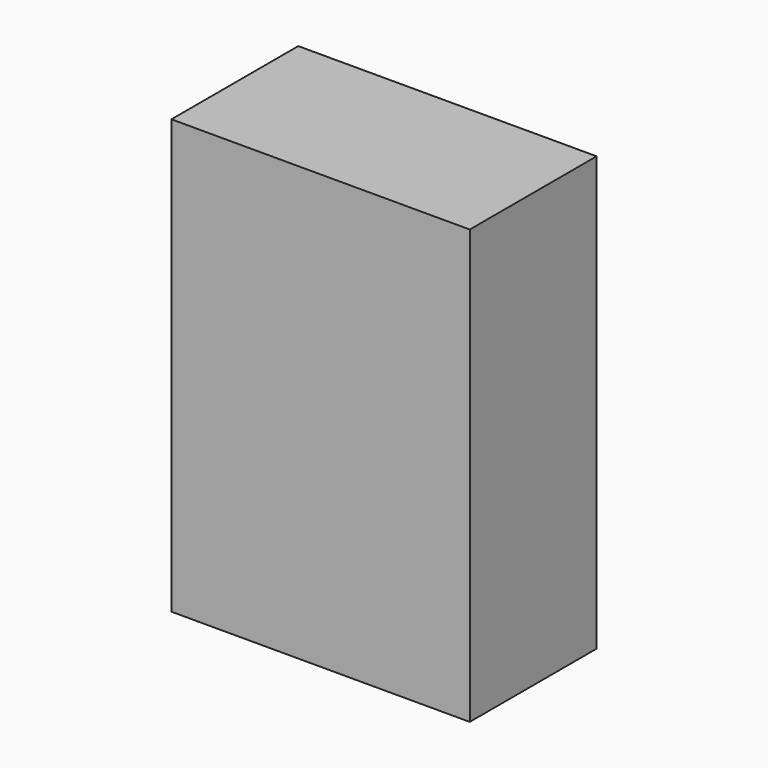
from build123d import *

# Parameters (mm, degrees)
F0_W     = 244.733572
F0_H     = 130.053326
F1_DEPTH = 25
F2_R     = 19.389288
F3_DEPTH = 25
F4_R     = 13.739414
F5_DEPTH = 25.24714
F6_DEPTH = 355.6


with BuildPart() as f1:
    # F0 (on Top) → F1 (new body)
    with BuildSketch(Plane.XY):
        Rectangle(F0_W, F0_H)
    extrude(amount=F1_DEPTH)

    # F2 (on face) → F3 (join)
    with BuildSketch(Plane.XY.offset(25)):
        with Locations((22.206802, -37.867222)):
            Circle(F2_R)
        with Locations((22.206802, -37.867222)):
            Circle(F2_R)
    extrude(amount=-F3_DEPTH)

    # F4 (on face) → F5 (cut)
    with BuildSketch(Plane.XY.offset(25)):
        with Locations((21.988617, -38.681503)):
            Circle(F4_R)
    extrude(amount=-F5_DEPTH, mode=Mode.SUBTRACT)


with BuildPart() as f6:
    # F0 (on Top) → F6 (new body)
    with BuildSketch(Plane.XY):
        Rectangle(F0_W, F0_H)
    extrude(amount=F6_DEPTH)


solid = Compound([f1.part, f6.part])
